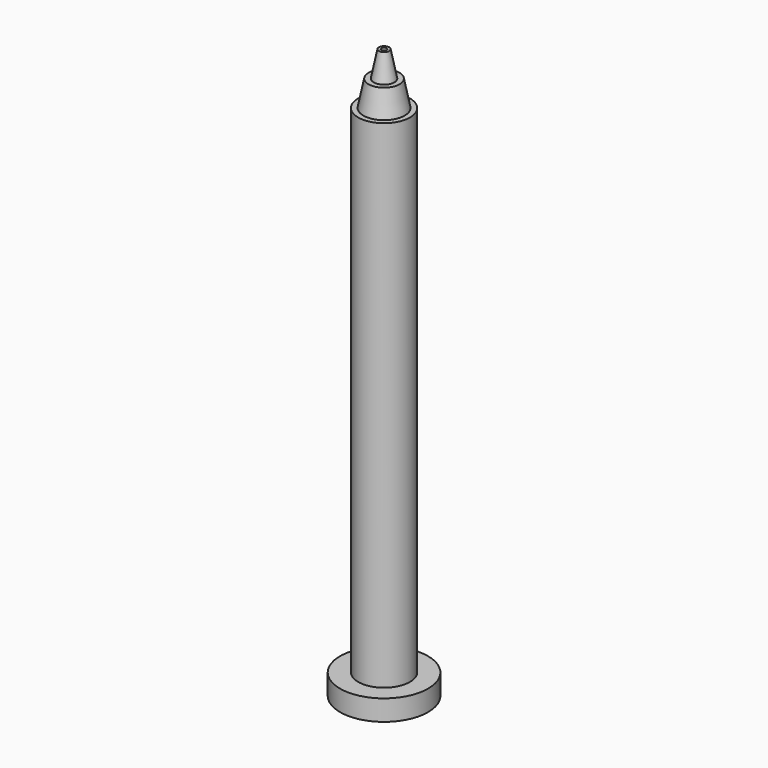
from build123d import *

# Parameters (mm, degrees)
F0_R     = 8.5
F1_DEPTH = 4
F2_R     = 5
F3_DEPTH = 100
F8_R     = 0.5
F9_DEPTH = 125.6


with BuildPart() as f1:
    # F0 (on Top) → F1 (new body)
    with BuildSketch(Plane.XY):
        Circle(F0_R)
    extrude(amount=F1_DEPTH)

    # F2 (on Top) → F3 (join)
    with BuildSketch(Plane.XY):
        Circle(F2_R)
    extrude(amount=F3_DEPTH)

    # F4 (on Right) → F5 (revolve)
    with BuildSketch(Plane.YZ):
        Polygon((3, 105), (0, 105), (0, 100), (4, 100), align=None)
    revolve(axis=Axis((0, 0, 102.5), (0, 0, -1)))

    # F6 (on Right) → F7 (revolve)
    with BuildSketch(Plane.YZ):
        Polygon((1, 110), (0, 110), (0, 105), (2, 105), align=None)
    revolve(axis=Axis((0, 0, 107.5), (0, 0, -1)))

    # F8 (on face) → F9 (cut)
    with BuildSketch(Plane.XY.offset(110)):
        Circle(F8_R)
    extrude(amount=-F9_DEPTH, mode=Mode.SUBTRACT)


solid = f1.part
